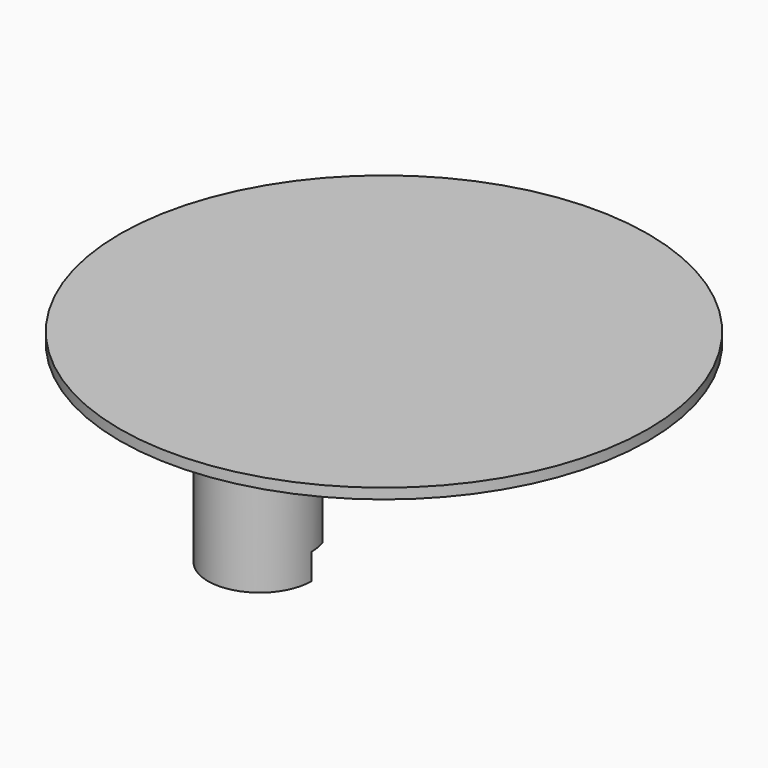
from build123d import *

# Parameters (mm, degrees)
F1_DEPTH = 5
F2_DEPTH = 1
F3_W     = 7.4393213727
F3_H     = 10.612742044
F4_DEPTH = 25
F5_R     = 10.2019510015
F6_DEPTH = 0.4


with BuildPart() as f1:
    # F0 (on Top) → F1 (new body)
    with BuildSketch(Plane.XY):
        with BuildLine():
            Line((-2, 6), (2, 6))
            ThreePointArc((2, 6), (0, 8), (-2, 6))
        make_face()
        with BuildLine():
            ThreePointArc((-2, 6), (0, 4), (2, 6))
            Line((2, 6), (-2, 6))
        make_face()
    extrude(amount=F1_DEPTH)


with BuildPart() as f1b:
    # F0 (on Top) → F1, piece 2 (new body)
    with BuildSketch(Plane.XY):
        with BuildLine():
            Line((-2, -6), (2, -6))
            ThreePointArc((2, -6), (0, -4), (-2, -6))
        make_face()
        with BuildLine():
            ThreePointArc((-2, -6), (0, -8), (2, -6))
            Line((2, -6), (-2, -6))
        make_face()
    extrude(amount=F1_DEPTH)


with BuildPart() as f2_tool:
    # F0 (on Top) → F2 (new body)
    with BuildSketch(Plane.XY):
        with BuildLine():
            ThreePointArc((-2, 6), (0, 4), (2, 6))
            Line((2, 6), (-2, 6))
        make_face()
        with BuildLine():
            Line((-2, -6), (2, -6))
            ThreePointArc((2, -6), (0, -4), (-2, -6))
        make_face()
    extrude(amount=F2_DEPTH)


with BuildPart() as f1_1:
    add(f1.part)

    # F2: cut by f2_tool
    add(f2_tool.part, mode=Mode.SUBTRACT)


with BuildPart() as f1b_1:
    add(f1b.part)

    # F2: cut by f2_tool
    add(f2_tool.part, mode=Mode.SUBTRACT)


with BuildPart() as f4_tool:
    # F3 (on face) → F4 (new body)
    with BuildSketch(Plane.XY):
        Rectangle(F3_W, F3_H)
    extrude(amount=F4_DEPTH)


with BuildPart() as f1_2:
    add(f1_1.part)

    # F4: cut by f4_tool
    add(f4_tool.part, mode=Mode.SUBTRACT)



with BuildPart() as f1b_2:
    add(f1b_1.part)

    # F4: cut by f4_tool
    add(f4_tool.part, mode=Mode.SUBTRACT)


with BuildPart() as f1_3:
    add(f1_2.part)

    add(f1b_2.part)  # F6 merges F1b
    # F5 (on face) → F6 (join)
    with BuildSketch(Plane.XY.offset(5)):
        Circle(F5_R)
    extrude(amount=F6_DEPTH)


solid = f1_3.part
